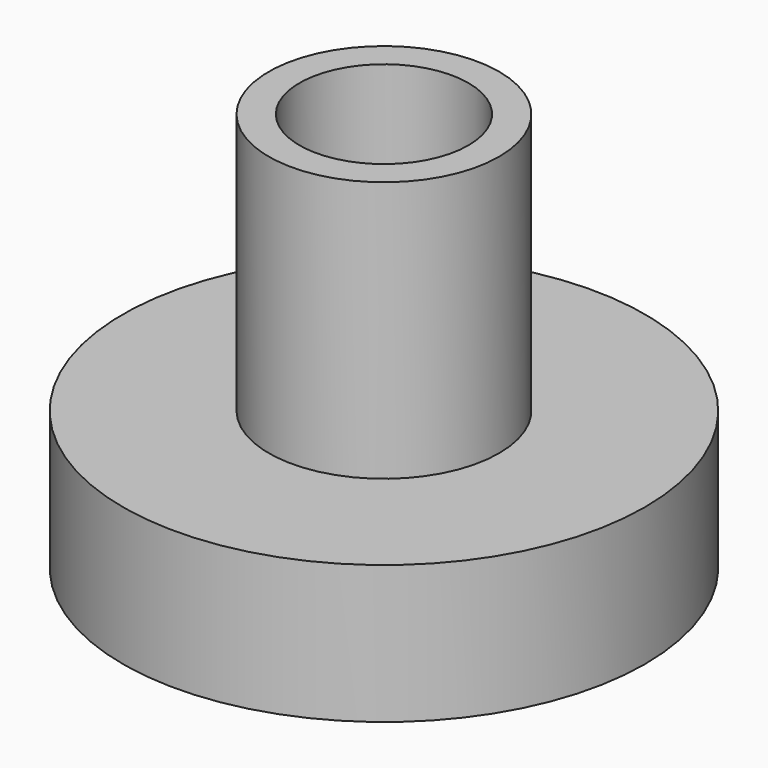
from build123d import *

# Parameters (mm, degrees)
SKETCH_R     = 8.5
PAD_DEPTH    = 4.5
SKETCH001_R  = 3.75
PAD001_DEPTH = 8.5
SKETCH002_R  = 2.75
POCKET_DEPTH = 13.001


with BuildPart() as part:
    # Sketch → Pad (new body)
    with BuildSketch(Plane.XY):
        Circle(SKETCH_R)
    extrude(amount=PAD_DEPTH)

    # Sketch001 (on Face3 of Pad) → Pad001 (join)
    with BuildSketch(Plane.XY.offset(4.5)):
        Circle(SKETCH001_R)
    extrude(amount=PAD001_DEPTH)

    # Sketch002 (on Face5 of Pad001) → Pocket (cut, through all)
    with BuildSketch(Plane.XY.offset(13)):
        Circle(SKETCH002_R)
    extrude(amount=-POCKET_DEPTH, mode=Mode.SUBTRACT)


solid = part.part
